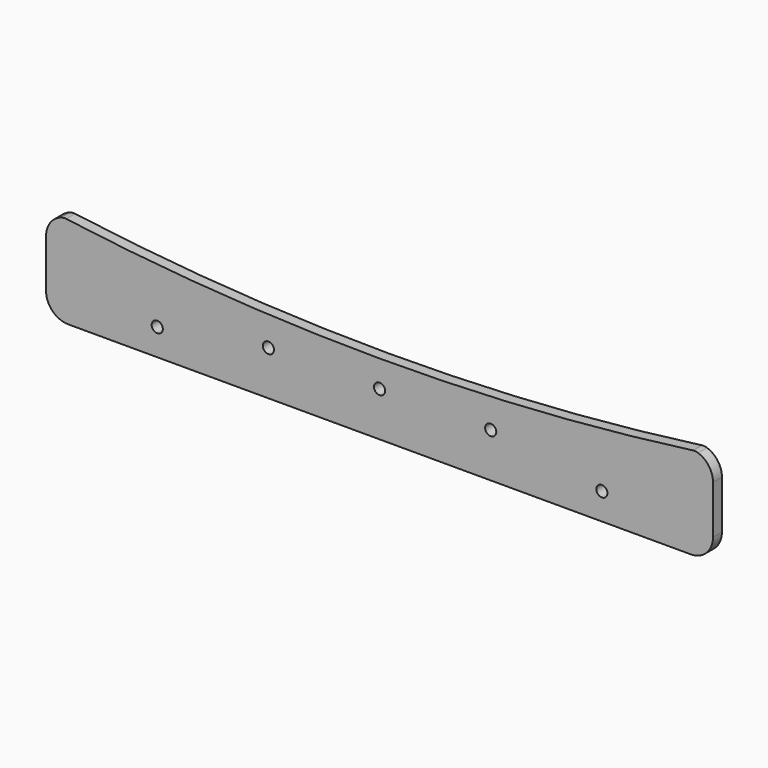
from build123d import *

# Parameters (mm, degrees)
F1_DEPTH = 5
F2_R     = 10
F3_R     = 10
F4_R     = 2.5
F5_DEPTH = 25
F6_R     = 2.5
F7_DEPTH = 25
F9_DEPTH = 25
F10_R    = 5


with BuildPart() as f1:
    # F0 (on Front) → F1 (new body)
    with BuildSketch(Plane.XZ):
        with BuildLine():
            Line((-150, 0), (0, 0))
            Line((0, 0), (150, 0))
            Line((150, 0), (150, 40))
            Line((150, 40), (50.331140256, 60))
            ThreePointArc((50.331140256, 60), (25.289442854, 63.7469311095), (0, 65))
            ThreePointArc((0, 65), (-25.289442854, 63.7469311095), (-50.331140256, 60))
            Line((-50.331140256, 60), (-150, 40))
            Line((-150, 40), (-150, 0))
        make_face()
    extrude(amount=F1_DEPTH)

    # F2
    f2_edges = [f1.edges().sort_by_distance(p)[0] for p in [
        (150, -2.5, 40),
        (-150, -2.5, 40),
    ]]
    fillet(f2_edges, radius=F2_R)

    # F3
    f3_edges = [f1.edges().sort_by_distance(p)[0] for p in [
        (-150, -2.5, 0),
        (150, -2.5, 0),
    ]]
    fillet(f3_edges, radius=F3_R)

    # F4 (on face) → F5 (cut)
    with BuildSketch(Plane.XZ.offset(5)):
        with Locations((-50, 20)):
            Circle(F4_R)
        with Locations((50, 20)):
            Circle(F4_R)
        with Locations((0, 20)):
            Circle(F4_R)
    extrude(amount=-F5_DEPTH, mode=Mode.SUBTRACT)

    # F6 (on face) → F7 (cut)
    with BuildSketch(Plane.XZ.offset(5)):
        with Locations((-100, 12)):
            Circle(F6_R)
        with Locations((100, 12)):
            Circle(F6_R)
        with Locations((50, 20)):
            Circle(F6_R)
    extrude(amount=-F7_DEPTH, mode=Mode.SUBTRACT)

    # F8 (on face) → F9 (cut)
    with BuildSketch(Plane.XZ.offset(5)):
        with BuildLine():
            Line((-141.9674253139, 76.700784266), (-141.9674253139, 41.6118524295))
            Line((-141.9674253139, 41.6118524295), (-50.331140256, 60))
            ThreePointArc((-50.331140256, 60), (0, 65), (50.331140256, 60))
            Line((50.331140256, 60), (141.9674253139, 41.6118524295))
            Line((141.9674253139, 41.6118524295), (141.9674253139, 76.700784266))
            Line((141.9674253139, 76.700784266), (-141.9674253139, 76.700784266))
        make_face()
        with BuildLine():
            Line((-50.331140256, 60), (-141.9674253139, 41.6118524295))
            ThreePointArc((-141.9674253139, 41.6118524295), (0, 32.0253701889), (141.9674253139, 41.6118524295))
            Line((141.9674253139, 41.6118524295), (50.331140256, 60))
            ThreePointArc((50.331140256, 60), (0, 65), (-50.331140256, 60))
        make_face()
    extrude(amount=-F9_DEPTH, mode=Mode.SUBTRACT)

    # F10
    f10_edges = [f1.edges().sort_by_distance(p)[0] for p in [
        (-141.967425, -2.5, 41.611852),
        (141.967425, -2.5, 41.611852),
    ]]
    fillet(f10_edges, radius=F10_R)


solid = f1.part
